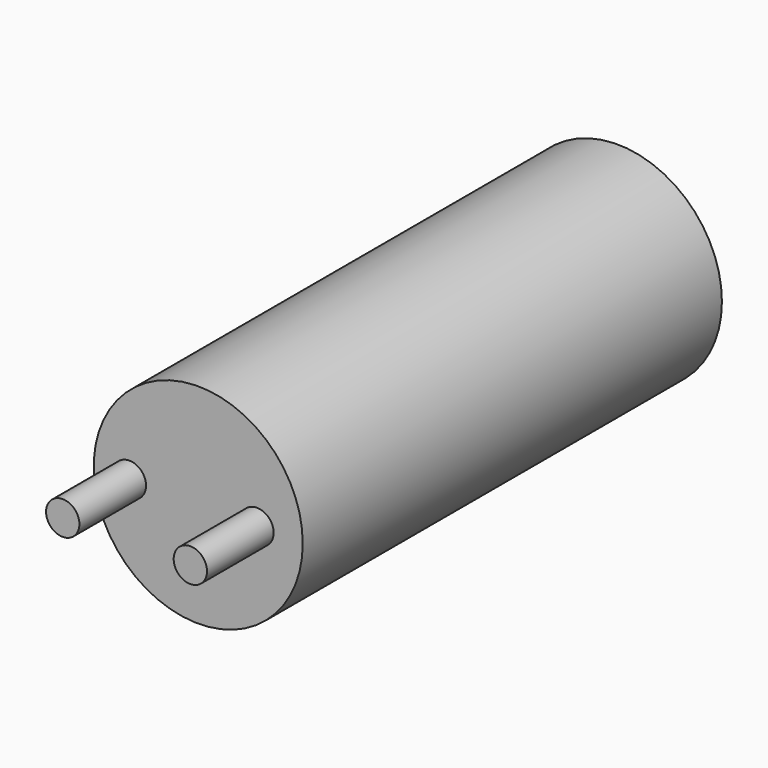
from build123d import *

# Parameters (mm, degrees)
F0_R     = 7.9629
F1_DEPTH = 39.9288
F2_R     = 1.27
F3_DEPTH = 6.35


with BuildPart() as f1:
    # F0 (on Front) → F1 (new body)
    with BuildSketch(Plane.XZ):
        Circle(F0_R)
    extrude(amount=F1_DEPTH)

    # F2 (on face) → F3 (join)
    with BuildSketch(Plane.XZ.offset(39.9288)):
        with Locations((-5.247899, 0)):
            Circle(F2_R)
        with Locations((4.477047, 0)):
            Circle(F2_R)
    extrude(amount=F3_DEPTH)


solid = f1.part
